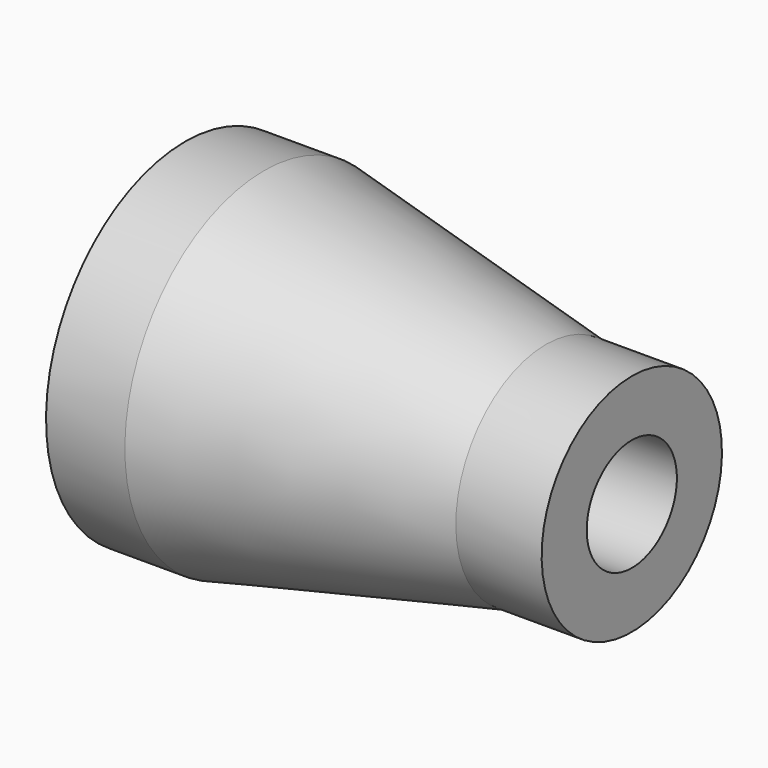
from build123d import *

# Parameters (mm, degrees)
F0_W     = 2.03
F0_H     = 4.478702968
F0_W_2   = 2.21
F0_H_2   = 2.9018263791
F2_R     = 1.45
F3_DEPTH = 25


with BuildPart() as f1:
    # F0 (on Front) → F1 (revolve)
    with BuildSketch(Plane.XZ):
        with Locations((1.015, 2.239351484)):
            Rectangle(F0_W, F0_H)
        Polygon((2.03, 4.478702968), (2.03, 0), (9.2907410244, 0), (9.2907410244, 2.9018263791), align=None)
        with Locations((10.3957410244, 1.4509131895)):
            Rectangle(F0_W_2, F0_H_2)
    revolve(axis=Axis((5.7503705122, 0, 0), (1, 0, 0)))

    # F2 (on face) → F3 (cut)
    with BuildSketch(Plane(origin=(0, 0, 0), x_dir=(0, -1, 0), z_dir=(-1, 0, 0))):
        Circle(F2_R)
    extrude(amount=-F3_DEPTH, mode=Mode.SUBTRACT)


solid = f1.part
